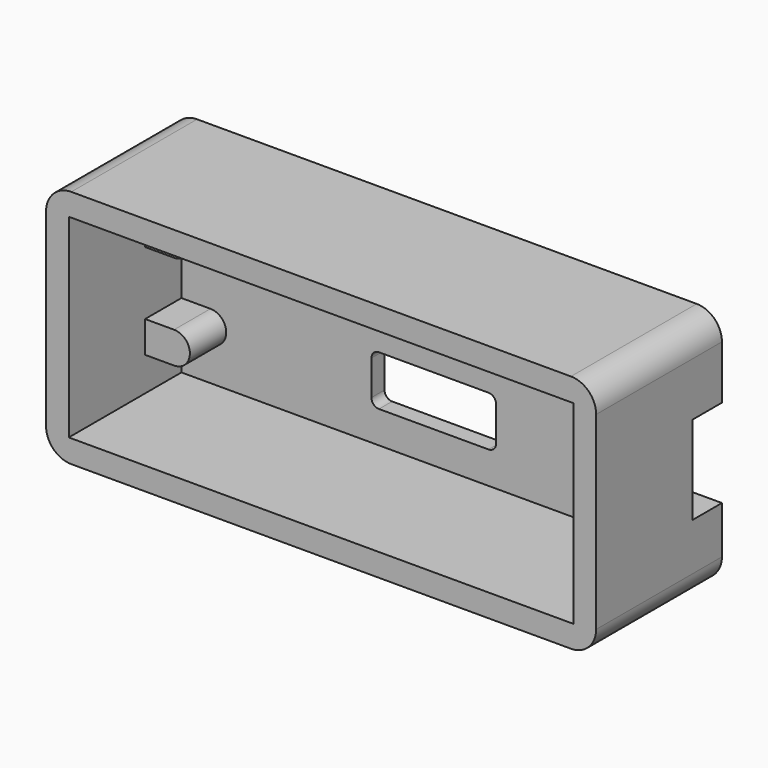
from build123d import *

# Parameters (mm, degrees)
F0_W      = 55.372
F0_H      = 24.13
F0_W_2    = 53.086
F0_H_2    = 21.844
F0_W_3    = 12.5476
F0_H_3    = 5.0292
F0_R      = 3.302
F1_DEPTH  = 18.8214
F2_DEPTH  = 17.1704
F3_START  = -12.5984
F3_DEPTH  = 4.572
F4_DEPTH  = 18.8224
F5_DEPTH  = 15.1384
F6_DEPTH  = 2.9972
F7_R      = 1.397
F8_R      = 2.54
F9_R      = 0.762
F10_R     = 3.302
F10_R_2   = 2.794
F11_DEPTH = 1.5748
F12_W     = 1.4269354192
F12_H     = 1.7015769881
F13_DEPTH = 0.508
F15_DEPTH = 3.683
F17_DEPTH = 2.9972


with BuildPart() as f1:
    # F0 (on Front) → F1 (new body)
    with BuildSketch(Plane.XZ):
        Rectangle(F0_W, F0_H)
        Rectangle(F0_W_2, F0_H_2, mode=Mode.SUBTRACT)
        Rectangle(F0_W_2, F0_H_2)
        Polygon((16.891, -9.779), (-25.4, -9.779), (-25.4, -6.3627), (-25.4, -3.1877), (-25.4, 3.1877), (-25.4, 6.3627), (-25.4, 9.779), (16.891, 9.779), (25.4, 9.779), (25.4, -1.905), (25.4, -9.779), align=None, mode=Mode.SUBTRACT)
        Rectangle(F0_W_2, F0_H_2)
        Polygon((16.891, -9.779), (-25.4, -9.779), (-25.4, -6.3627), (-25.4, -3.1877), (-25.4, 3.1877), (-25.4, 6.3627), (-25.4, 9.779), (16.891, 9.779), (25.4, 9.779), (25.4, -1.905), (25.4, -9.779), align=None, mode=Mode.SUBTRACT)
        with BuildLine():
            Line((-25.4, -6.3627), (-25.4, -9.779))
            Line((-25.4, -9.779), (16.891, -9.779))
            Line((16.891, -9.779), (16.891, 9.779))
            Line((16.891, 9.779), (-25.4, 9.779))
            Line((-25.4, 9.779), (-25.4, 6.3627))
            Line((-25.4, 6.3627), (-22.479, 6.3627))
            ThreePointArc((-22.479, 6.3627), (-20.8915, 4.7752), (-22.479, 3.1877))
            Line((-22.479, 3.1877), (-25.4, 3.1877))
            Line((-25.4, 3.1877), (-25.4, -3.1877))
            Line((-25.4, -3.1877), (-22.479, -3.1877))
            ThreePointArc((-22.479, -3.1877), (-20.8915, -4.7752), (-22.479, -6.3627))
            Line((-22.479, -6.3627), (-25.4, -6.3627))
        make_face()
        with Locations((0, -4.0386)):
            Rectangle(F0_W_3, F0_H_3, mode=Mode.SUBTRACT)
        Polygon((16.891, 9.779), (16.891, -9.779), (25.4, -9.779), (25.4, -1.905), (25.4, 9.779), align=None)
        with Locations((22.098, -1.905)):
            Circle(F0_R, mode=Mode.SUBTRACT)
        Polygon((16.891, 9.779), (16.891, -9.779), (25.4, -9.779), (25.4, -1.905), (25.4, 9.779), align=None)
        with Locations((22.098, -1.905)):
            Circle(F0_R, mode=Mode.SUBTRACT)
        with Locations((0, -4.0386)):
            Rectangle(F0_W_3, F0_H_3)
        with Locations((22.098, -1.905)):
            Circle(F0_R)
        with BuildLine():
            Line((-25.4, 6.3627), (-25.4, 3.1877))
            Line((-25.4, 3.1877), (-22.479, 3.1877))
            ThreePointArc((-22.479, 3.1877), (-20.8915, 4.7752), (-22.479, 6.3627))
            Line((-22.479, 6.3627), (-25.4, 6.3627))
        make_face()
        with BuildLine():
            Line((-25.4, -3.1877), (-25.4, -6.3627))
            Line((-25.4, -6.3627), (-22.479, -6.3627))
            ThreePointArc((-22.479, -6.3627), (-20.8915, -4.7752), (-22.479, -3.1877))
            Line((-22.479, -3.1877), (-25.4, -3.1877))
        make_face()
    extrude(amount=-F1_DEPTH)

    # F0 (on Front) → F2 (cut)
    with BuildSketch(Plane.XZ):
        with BuildLine():
            Line((-25.4, -6.3627), (-25.4, -9.779))
            Line((-25.4, -9.779), (16.891, -9.779))
            Line((16.891, -9.779), (16.891, 9.779))
            Line((16.891, 9.779), (-25.4, 9.779))
            Line((-25.4, 9.779), (-25.4, 6.3627))
            Line((-25.4, 6.3627), (-22.479, 6.3627))
            ThreePointArc((-22.479, 6.3627), (-20.8915, 4.7752), (-22.479, 3.1877))
            Line((-22.479, 3.1877), (-25.4, 3.1877))
            Line((-25.4, 3.1877), (-25.4, -3.1877))
            Line((-25.4, -3.1877), (-22.479, -3.1877))
            ThreePointArc((-22.479, -3.1877), (-20.8915, -4.7752), (-22.479, -6.3627))
            Line((-22.479, -6.3627), (-25.4, -6.3627))
        make_face()
        with Locations((0, -4.0386)):
            Rectangle(F0_W_3, F0_H_3, mode=Mode.SUBTRACT)
        with BuildLine():
            Line((-25.4, 6.3627), (-25.4, 3.1877))
            Line((-25.4, 3.1877), (-22.479, 3.1877))
            ThreePointArc((-22.479, 3.1877), (-20.8915, 4.7752), (-22.479, 6.3627))
            Line((-22.479, 6.3627), (-25.4, 6.3627))
        make_face()
        with BuildLine():
            Line((-25.4, -3.1877), (-25.4, -6.3627))
            Line((-25.4, -6.3627), (-22.479, -6.3627))
            ThreePointArc((-22.479, -6.3627), (-20.8915, -4.7752), (-22.479, -3.1877))
            Line((-22.479, -3.1877), (-25.4, -3.1877))
        make_face()
        with Locations((0, -4.0386)):
            Rectangle(F0_W_3, F0_H_3)
    extrude(amount=-F2_DEPTH, mode=Mode.SUBTRACT)

    # F0 (on Front) → F3 (join)
    with BuildSketch(Plane.XZ.offset(F3_START)):
        with BuildLine():
            Line((-25.4, 6.3627), (-25.4, 3.1877))
            Line((-25.4, 3.1877), (-22.479, 3.1877))
            ThreePointArc((-22.479, 3.1877), (-20.8915, 4.7752), (-22.479, 6.3627))
            Line((-22.479, 6.3627), (-25.4, 6.3627))
        make_face()
        with BuildLine():
            Line((-25.4, -3.1877), (-25.4, -6.3627))
            Line((-25.4, -6.3627), (-22.479, -6.3627))
            ThreePointArc((-22.479, -6.3627), (-20.8915, -4.7752), (-22.479, -3.1877))
            Line((-22.479, -3.1877), (-25.4, -3.1877))
        make_face()
    extrude(amount=-F3_DEPTH)

    # F0 (on Front) → F4 (cut, through all)
    with BuildSketch(Plane.XZ):
        with Locations((0, -4.0386)):
            Rectangle(F0_W_3, F0_H_3)
    extrude(amount=-F4_DEPTH, mode=Mode.SUBTRACT)

    # F0 (on Front) → F5 (cut)
    with BuildSketch(Plane.XZ):
        Polygon((16.891, 9.779), (16.891, -9.779), (25.4, -9.779), (25.4, -1.905), (25.4, 9.779), align=None)
        with Locations((22.098, -1.905)):
            Circle(F0_R, mode=Mode.SUBTRACT)
        Polygon((16.891, 9.779), (16.891, -9.779), (25.4, -9.779), (25.4, -1.905), (25.4, 9.779), align=None)
        with Locations((22.098, -1.905)):
            Circle(F0_R, mode=Mode.SUBTRACT)
        with Locations((22.098, -1.905)):
            Circle(F0_R)
    extrude(amount=-F5_DEPTH, mode=Mode.SUBTRACT)

    # F0 (on Front) → F6 (cut)
    with BuildSketch(Plane.XZ):
        Rectangle(F0_W_2, F0_H_2)
        Polygon((16.891, -9.779), (-25.4, -9.779), (-25.4, -6.3627), (-25.4, -3.1877), (-25.4, 3.1877), (-25.4, 6.3627), (-25.4, 9.779), (16.891, 9.779), (25.4, 9.779), (25.4, -1.905), (25.4, -9.779), align=None, mode=Mode.SUBTRACT)
        Rectangle(F0_W_2, F0_H_2)
        Polygon((16.891, -9.779), (-25.4, -9.779), (-25.4, -6.3627), (-25.4, -3.1877), (-25.4, 3.1877), (-25.4, 6.3627), (-25.4, 9.779), (16.891, 9.779), (25.4, 9.779), (25.4, -1.905), (25.4, -9.779), align=None, mode=Mode.SUBTRACT)
    extrude(amount=-F6_DEPTH, mode=Mode.SUBTRACT)

    # F7
    f7_edges = [f1.edges().sort_by_distance(p)[0] for p in [
        (-26.543, 1.4986, 10.922),
        (26.543, 1.4986, 10.922),
        (26.543, 1.4986, -10.922),
        (-26.543, 1.4986, -10.922),
    ]]
    fillet(f7_edges, radius=F7_R)

    # F8
    f8_edges = [f1.edges().sort_by_distance(p)[0] for p in [
        (27.686, 9.4107, 12.065),
        (27.686, 9.4107, -12.065),
        (-27.686, 9.4107, -12.065),
        (-27.686, 9.4107, 12.065),
    ]]
    fillet(f8_edges, radius=F8_R)

    # F9
    f9_edges = [f1.edges().sort_by_distance(p)[0] for p in [
        (-6.2738, 17.9959, -1.524),
        (-6.2738, 17.9959, -6.5532),
        (6.2738, 17.9959, -6.5532),
        (6.2738, 17.9959, -1.524),
    ]]
    fillet(f9_edges, radius=F9_R)

    # F10 (on face) → F11 (join)
    with BuildSketch(Plane.XZ.offset(-15.1384)):
        with Locations((22.098, -1.905)):
            Circle(F10_R)
        with Locations((22.098, -1.905)):
            Circle(F10_R_2, mode=Mode.SUBTRACT)
    extrude(amount=-F11_DEPTH)

    # F12 (on face) → F13 (cut)
    with BuildSketch(Plane(origin=(0, 18.8214, 0), x_dir=(-1, 0, 0), z_dir=(0, 1, 0))):
        with BuildLine():
            add(Edge.make_bspline(
                [(-11.2693289529, 0.5145416349), (-11.8504585787, 0.5145416349), (-12.3858084959, 0.6120558378), (-12.8753848183, 0.8070903574)],
                knots=[0, 0, 0, 0, 1, 1, 1, 1], degree=3))
            add(Edge.make_bspline(
                [(-10.4095838251, 0.5802154636), (-10.6285047391, 0.5364288353), (-10.9150864484, 0.5145416349), (-11.2693289529, 0.5145416349)],
                knots=[0, 0, 0, 0, 1, 1, 1, 1], degree=3))
            add(Edge.make_bspline(
                [(-9.6871594818, 0.7712699364), (-9.9458808636, 0.6876828403), (-10.1866889781, 0.6239959781), (-10.4095838251, 0.5802154636)],
                knots=[0, 0, 0, 0, 1, 1, 1, 1], degree=3))
            add(Edge.make_bspline(
                [(-9.060262375, 1.0160580976), (-9.2314166139, 0.9324710015), (-9.4403843541, 0.8508769857), (-9.6871594818, 0.7712699364)],
                knots=[0, 0, 0, 0, 1, 1, 1, 1], degree=3))
            add(Edge.make_bspline(
                [(-8.5050122238, 1.2787595262), (-8.7000467434, 1.1872123366), (-8.885134203, 1.0996451937), (-9.060262375, 1.0160580976)],
                knots=[0, 0, 0, 0, 1, 1, 1, 1], degree=3))
            Line((-8.5050122238, 1.2787595262), (-8.5050122238, 2.687781678))
            Line((-8.5050122238, 2.687781678), (-8.5945663332, 2.687781678))
            add(Edge.make_bspline(
                [(-8.9707082656, 2.3534394075), (-8.811494167, 2.4847870649), (-8.6861135228, 2.5962344884), (-8.5945663332, 2.687781678)],
                knots=[0, 0, 0, 0, 1, 1, 1, 1], degree=3))
            add(Edge.make_bspline(
                [(-9.537898557, 1.9772974751), (-9.3189837568, 2.1006911527), (-9.1299223642, 2.2260656831), (-8.9707082656, 2.3534394075)],
                knots=[0, 0, 0, 0, 1, 1, 1, 1], degree=3))
            add(Edge.make_bspline(
                [(-10.3140565887, 1.6608684719), (-10.0234948327, 1.7444494542), (-9.7647795646, 1.8499298644), (-9.537898557, 1.9772974751)],
                knots=[0, 0, 0, 0, 1, 1, 1, 1], degree=3))
            add(Edge.make_bspline(
                [(-11.2633619396, 1.5354878277), (-10.9210534617, 1.5354878277), (-10.6046244585, 1.5772813758), (-10.3140565887, 1.6608684719)],
                knots=[0, 0, 0, 0, 1, 1, 1, 1], degree=3))
            add(Edge.make_bspline(
                [(-12.3261016805, 1.7563957083), (-11.9917594099, 1.60912175), (-11.6375107917, 1.5354878277), (-11.2633619396, 1.5354878277)],
                knots=[0, 0, 0, 0, 1, 1, 1, 1], degree=3))
            add(Edge.make_bspline(
                [(-13.1977869486, 2.4250863632), (-12.9510118208, 2.1305384467), (-12.6604500648, 1.9076435996), (-12.3261016805, 1.7563957083)],
                knots=[0, 0, 0, 0, 1, 1, 1, 1], degree=3))
            add(Edge.make_bspline(
                [(-13.8008037748, 3.5355866654), (-13.6535298165, 3.0977570649), (-13.4525282836, 2.7275882596), (-13.1977869486, 2.4250863632)],
                knots=[0, 0, 0, 0, 1, 1, 1, 1], degree=3))
            add(Edge.make_bspline(
                [(-14.0217116553, 5.1117891232), (-14.0217116553, 4.5027991699), (-13.948077733, 3.9774024265), (-13.8008037748, 3.5355866654)],
                knots=[0, 0, 0, 0, 1, 1, 1, 1], degree=3))
            add(Edge.make_bspline(
                [(-13.8127439151, 6.6581320595), (-13.9520577798, 6.200402225), (-14.0217116553, 5.6849525417), (-14.0217116553, 5.1117891232)],
                knots=[0, 0, 0, 0, 1, 1, 1, 1], degree=3))
            add(Edge.make_bspline(
                [(-13.2276403563, 7.7984918832), (-13.4784016445, 7.4959899868), (-13.6734361641, 7.1158680077), (-13.8127439151, 6.6581320595)],
                knots=[0, 0, 0, 0, 1, 1, 1, 1], degree=3))
            add(Edge.make_bspline(
                [(-12.3380418208, 8.4850896917), (-12.6763702519, 8.3298617536), (-12.9728990212, 8.1009937795), (-13.2276403563, 7.7984918832)],
                knots=[0, 0, 0, 0, 1, 1, 1, 1], degree=3))
            add(Edge.make_bspline(
                [(-11.2633619396, 8.7179377126), (-11.6414908384, 8.7179377126), (-11.9997195034, 8.6403237435), (-12.3380418208, 8.4850896917)],
                knots=[0, 0, 0, 0, 1, 1, 1, 1], degree=3))
            add(Edge.make_bspline(
                [(-10.3379429831, 8.5985301955), (-10.6046244585, 8.6781372448), (-10.9130933681, 8.7179377126), (-11.2633619396, 8.7179377126)],
                knots=[0, 0, 0, 0, 1, 1, 1, 1], degree=3))
            add(Edge.make_bspline(
                [(-9.5976053724, 8.2940352189), (-9.8244802663, 8.4174288965), (-10.0712615077, 8.5189231462), (-10.3379429831, 8.5985301955)],
                knots=[0, 0, 0, 0, 1, 1, 1, 1], degree=3))
            add(Edge.make_bspline(
                [(-9.0005616733, 7.8940191196), (-9.1637497049, 8.0293468238), (-9.3627703851, 8.1626875615), (-9.5976053724, 8.2940352189)],
                knots=[0, 0, 0, 0, 1, 1, 1, 1], degree=3))
            add(Edge.make_bspline(
                [(-8.6005394602, 7.5477305949), (-8.7040267902, 7.6432578313), (-8.8373675279, 7.7586853016), (-9.0005616733, 7.8940191196)],
                knots=[0, 0, 0, 0, 1, 1, 1, 1], degree=3))
            Line((-8.6005394602, 7.5477305949), (-8.5050122238, 7.5477305949))
            Line((-8.5050122238, 7.5477305949), (-8.5050122238, 8.9746721279))
            add(Edge.make_bspline(
                [(-9.102055923, 9.2672208504), (-8.8990613098, 9.1796537076), (-8.7000467434, 9.0821395046), (-8.5050122238, 8.9746721279)],
                knots=[0, 0, 0, 0, 1, 1, 1, 1], degree=3))
            add(Edge.make_bspline(
                [(-9.6871594818, 9.494101858), (-9.496105009, 9.4343950426), (-9.3010704894, 9.3587680401), (-9.102055923, 9.2672208504)],
                knots=[0, 0, 0, 0, 1, 1, 1, 1], degree=3))
            add(Edge.make_bspline(
                [(-10.4155569522, 9.6612699364), (-10.1528555236, 9.6174894219), (-9.9100604426, 9.5617626532), (-9.6871594818, 9.494101858)],
                knots=[0, 0, 0, 0, 1, 1, 1, 1], degree=3))
            add(Edge.make_bspline(
                [(-11.2514217992, 9.7269437651), (-10.9528999496, 9.7269437651), (-10.674278334, 9.7050565647), (-10.4155569522, 9.6612699364)],
                knots=[0, 0, 0, 0, 1, 1, 1, 1], degree=3))
            add(Edge.make_bspline(
                [(-12.8813518316, 9.4105147619), (-12.395755556, 9.6214694686), (-11.8524455452, 9.7269437651), (-11.2514217992, 9.7269437651)],
                knots=[0, 0, 0, 0, 1, 1, 1, 1], degree=3))
            add(Edge.make_bspline(
                [(-14.1411191724, 8.5030029591), (-13.7868705542, 8.9010320919), (-13.3669481072, 9.203540102), (-12.8813518316, 9.4105147619)],
                knots=[0, 0, 0, 0, 1, 1, 1, 1], degree=3))
            add(Edge.make_bspline(
                [(-14.9710108924, 7.0581542725), (-14.7799564196, 7.6114174571), (-14.5033278842, 8.093033686), (-14.1411191724, 8.5030029591)],
                knots=[0, 0, 0, 0, 1, 1, 1, 1], degree=3))
            add(Edge.make_bspline(
                [(-15.2516255884, 5.1117891232), (-15.2516255884, 5.8561067806), (-15.1580853185, 6.5048910879), (-14.9710108924, 7.0581542725)],
                knots=[0, 0, 0, 0, 1, 1, 1, 1], degree=3))
            add(Edge.make_bspline(
                [(-14.9590707521, 3.1236243121), (-15.1541052717, 3.7007677774), (-15.2516255884, 4.363491419), (-15.2516255884, 5.1117891232)],
                knots=[0, 0, 0, 0, 1, 1, 1, 1], degree=3))
            add(Edge.make_bspline(
                [(-14.1351460453, 1.6787756255), (-14.4893946636, 2.0648646179), (-14.7640362325, 2.5464808468), (-14.9590707521, 3.1236243121)],
                knots=[0, 0, 0, 0, 1, 1, 1, 1], degree=3))
            add(Edge.make_bspline(
                [(-12.8753848183, 0.8070903574), (-13.3609810939, 1.002124877), (-13.7809035409, 1.2926866331), (-14.1351460453, 1.6787756255)],
                knots=[0, 0, 0, 0, 1, 1, 1, 1], degree=3))
        make_face()
        Polygon((-7.3885387945, 0.6757427), (-2.2360350414, 0.6757427), (-2.2360350414, 1.7265423006), (-6.2063854228, 1.7265423006), (-6.2063854228, 9.5657427), (-7.3885387945, 9.5657427), align=None)
        with Locations((-0.0359250971, 6.4939474877)):
            Rectangle(F12_W, F12_H)
        with BuildLine():
            add(Edge.make_bspline(
                [(9.3108143109, 8.5447965071), (9.649142742, 8.1547274679), (9.9118441706, 7.6711242725), (10.0989185967, 7.0939746935)],
                knots=[0, 0, 0, 0, 1, 1, 1, 1], degree=3))
            add(Edge.make_bspline(
                [(8.0809064916, 9.4343950426), (8.5665027672, 9.2234403359), (8.9764720403, 8.9269054528), (9.3108143109, 8.5447965071)],
                knots=[0, 0, 0, 0, 1, 1, 1, 1], degree=3))
            add(Edge.make_bspline(
                [(6.4449972184, 9.7508301595), (7.0500071249, 9.7508301595), (7.5953102159, 9.6453497493), (8.0809064916, 9.4343950426)],
                knots=[0, 0, 0, 0, 1, 1, 1, 1], degree=3))
            add(Edge.make_bspline(
                [(4.8210341994, 9.4403620559), (5.3066365887, 9.6473428296), (5.8479535193, 9.7508301595), (6.4449972184, 9.7508301595)],
                knots=[0, 0, 0, 0, 1, 1, 1, 1], degree=3))
            add(Edge.make_bspline(
                [(3.585153253, 8.5447965071), (3.9274617309, 8.9388455931), (4.3394179705, 9.2373674427), (4.8210341994, 9.4403620559)],
                knots=[0, 0, 0, 0, 1, 1, 1, 1], degree=3))
            add(Edge.make_bspline(
                [(2.7910819539, 7.0880076802), (2.97815638, 7.6532110052), (3.2428447751, 8.1388072808), (3.585153253, 8.5447965071)],
                knots=[0, 0, 0, 0, 1, 1, 1, 1], degree=3))
            add(Edge.make_bspline(
                [(2.516440385, 5.1177561365), (2.516440385, 5.8660538407), (2.6079875747, 6.5228043553), (2.7910819539, 7.0880076802)],
                knots=[0, 0, 0, 0, 1, 1, 1, 1], degree=3))
            add(Edge.make_bspline(
                [(2.7910819539, 3.1594508468), (2.6079875747, 3.7365943121), (2.516440385, 4.3893647799), (2.516440385, 5.1177561365)],
                knots=[0, 0, 0, 0, 1, 1, 1, 1], degree=3))
            add(Edge.make_bspline(
                [(3.5791801259, 1.7026559062), (3.2368777618, 2.0967111059), (2.9741763332, 2.5823073815), (2.7910819539, 3.1594508468)],
                knots=[0, 0, 0, 0, 1, 1, 1, 1], degree=3))
            add(Edge.make_bspline(
                [(4.8210341994, 0.7951502171), (4.3394179705, 0.9981448303), (3.9254686506, 1.3006467266), (3.5791801259, 1.7026559062)],
                knots=[0, 0, 0, 0, 1, 1, 1, 1], degree=3))
            add(Edge.make_bspline(
                [(6.4449972184, 0.4906552405), (5.8439734725, 0.4906552405), (5.302656542, 0.5921556039), (4.8210341994, 0.7951502171)],
                knots=[0, 0, 0, 0, 1, 1, 1, 1], degree=3))
            add(Edge.make_bspline(
                [(8.0391129435, 0.7832100768), (7.5574967147, 0.5881755571), (7.0261268442, 0.4906552405), (6.4449972184, 0.4906552405)],
                knots=[0, 0, 0, 0, 1, 1, 1, 1], degree=3))
            add(Edge.make_bspline(
                [(9.3108143109, 1.7026559062), (8.9486117129, 1.2887065863), (8.5247092192, 0.9822246431), (8.0391129435, 0.7832100768)],
                knots=[0, 0, 0, 0, 1, 1, 1, 1], degree=3))
            add(Edge.make_bspline(
                [(10.10488561, 3.1654178601), (9.9217912307, 2.5842943481), (9.6571028356, 2.0967111059), (9.3108143109, 1.7026559062)],
                knots=[0, 0, 0, 0, 1, 1, 1, 1], degree=3))
            add(Edge.make_bspline(
                [(10.3795271789, 5.1177561365), (10.3795271789, 4.3973248735), (10.2879799892, 3.7465413722), (10.10488561, 3.1654178601)],
                knots=[0, 0, 0, 0, 1, 1, 1, 1], degree=3))
            add(Edge.make_bspline(
                [(10.0989185967, 7.0939746935), (10.2859930227, 6.5168312282), (10.3795271789, 5.8580937471), (10.3795271789, 5.1177561365)],
                knots=[0, 0, 0, 0, 1, 1, 1, 1], degree=3))
        make_face()
        with BuildLine():
            add(Edge.make_bspline(
                [(9.1496132458, 5.1177561365), (9.1496132458, 5.7068397421), (9.0859324973, 6.2282625525), (8.958558773, 6.6820184539)],
                knots=[0, 0, 0, 0, 1, 1, 1, 1], degree=3))
            add(Edge.make_bspline(
                [(8.4152487622, 2.4370265035), (8.9048250846, 3.0579504834), (9.1496132458, 3.9515290656), (9.1496132458, 5.1177561365)],
                knots=[0, 0, 0, 0, 1, 1, 1, 1], degree=3))
            add(Edge.make_bspline(
                [(6.4509703455, 1.5116014333), (7.2748950522, 1.5116014333), (7.9296524865, 1.8200764567), (8.4152487622, 2.4370265035)],
                knots=[0, 0, 0, 0, 1, 1, 1, 1], degree=3))
            add(Edge.make_bspline(
                [(4.4807188017, 2.4370265035), (4.9702951241, 1.8200764567), (5.6270456387, 1.5116014333), (6.4509703455, 1.5116014333)],
                knots=[0, 0, 0, 0, 1, 1, 1, 1], degree=3))
            add(Edge.make_bspline(
                [(3.7463543181, 5.1177561365), (3.7463543181, 3.9515290656), (3.9911424793, 3.0579504834), (4.4807188017, 2.4370265035)],
                knots=[0, 0, 0, 0, 1, 1, 1, 1], degree=3))
            add(Edge.make_bspline(
                [(3.9314417776, 6.6700721998), (3.8080481, 6.2123423654), (3.7463543181, 5.6948996018), (3.7463543181, 5.1177561365)],
                knots=[0, 0, 0, 0, 1, 1, 1, 1], degree=3))
            add(Edge.make_bspline(
                [(4.4747517884, 7.8104320235), (4.2399106873, 7.5079301271), (4.0588093883, 7.127808148), (3.9314417776, 6.6700721998)],
                knots=[0, 0, 0, 0, 1, 1, 1, 1], degree=3))
            add(Edge.make_bspline(
                [(5.3225567758, 8.5030029591), (5.0041285786, 8.3557351146), (4.7215269162, 8.1248740602), (4.4747517884, 7.8104320235)],
                knots=[0, 0, 0, 0, 1, 1, 1, 1], degree=3))
            add(Edge.make_bspline(
                [(6.4509703455, 8.7298839667), (6.0210947247, 8.7298839667), (5.6449589061, 8.6542569641), (5.3225567758, 8.5030029591)],
                knots=[0, 0, 0, 0, 1, 1, 1, 1], degree=3))
            add(Edge.make_bspline(
                [(7.5674437748, 8.4970359458), (7.237081551, 8.6522638839), (6.8649196654, 8.7298839667), (6.4509703455, 8.7298839667)],
                knots=[0, 0, 0, 0, 1, 1, 1, 1], degree=3))
            add(Edge.make_bspline(
                [(8.4212218892, 7.8104320235), (8.1863807881, 8.1169139666), (7.9017921591, 8.3457819407), (7.5674437748, 8.4970359458)],
                knots=[0, 0, 0, 0, 1, 1, 1, 1], degree=3))
            add(Edge.make_bspline(
                [(8.958558773, 6.6820184539), (8.8311911623, 7.1357682416), (8.6520768298, 7.5119101739), (8.4212218892, 7.8104320235)],
                knots=[0, 0, 0, 0, 1, 1, 1, 1], degree=3))
        make_face(mode=Mode.SUBTRACT)
        with Locations((-0.0359250971, 1.5265311941)):
            Rectangle(F12_W, F12_H)
        with BuildLine():
            add(Edge.make_bspline(
                [(15.1439488593, 0.5145416349), (14.5628253473, 0.5145416349), (14.0274754301, 0.6120558378), (13.5378991076, 0.8070903574)],
                knots=[0, 0, 0, 0, 1, 1, 1, 1], degree=3))
            add(Edge.make_bspline(
                [(16.0036939871, 0.5802154636), (15.7847791868, 0.5364288353), (15.4981974776, 0.5145416349), (15.1439488593, 0.5145416349)],
                knots=[0, 0, 0, 0, 1, 1, 1, 1], degree=3))
            add(Edge.make_bspline(
                [(16.7261183304, 0.7712699364), (16.4673969486, 0.6876828403), (16.2265888341, 0.6239959781), (16.0036939871, 0.5802154636)],
                knots=[0, 0, 0, 0, 1, 1, 1, 1], degree=3))
            add(Edge.make_bspline(
                [(17.3530154372, 1.0160580976), (17.1818611983, 0.9324710015), (16.9728995718, 0.8508769857), (16.7261183304, 0.7712699364)],
                knots=[0, 0, 0, 0, 1, 1, 1, 1], degree=3))
            add(Edge.make_bspline(
                [(17.9082655884, 1.2787595262), (17.7132310688, 1.1872123366), (17.528149723, 1.0996451937), (17.3530154372, 1.0160580976)],
                knots=[0, 0, 0, 0, 1, 1, 1, 1], degree=3))
            Line((17.9082655884, 1.2787595262), (17.9082655884, 2.687781678))
            Line((17.9082655884, 2.687781678), (17.818711479, 2.687781678))
            add(Edge.make_bspline(
                [(17.4425756604, 2.3534394075), (17.6017836452, 2.4847870649), (17.7271642894, 2.5962344884), (17.818711479, 2.687781678)],
                knots=[0, 0, 0, 0, 1, 1, 1, 1], degree=3))
            add(Edge.make_bspline(
                [(16.8753792552, 1.9772974751), (17.0942940554, 2.1006911527), (17.2833615618, 2.2260656831), (17.4425756604, 2.3534394075)],
                knots=[0, 0, 0, 0, 1, 1, 1, 1], degree=3))
            add(Edge.make_bspline(
                [(16.0992212235, 1.6608684719), (16.3897829795, 1.7444494542), (16.6485043613, 1.8499298644), (16.8753792552, 1.9772974751)],
                knots=[0, 0, 0, 0, 1, 1, 1, 1], degree=3))
            add(Edge.make_bspline(
                [(15.1499219864, 1.5354878277), (15.4922243505, 1.5354878277), (15.8086594675, 1.5772813758), (16.0992212235, 1.6608684719)],
                knots=[0, 0, 0, 0, 1, 1, 1, 1], degree=3))
            add(Edge.make_bspline(
                [(14.0871761317, 1.7563957083), (14.4215245161, 1.60912175), (14.7757731343, 1.5354878277), (15.1499219864, 1.5354878277)],
                knots=[0, 0, 0, 0, 1, 1, 1, 1], degree=3))
            add(Edge.make_bspline(
                [(13.2154908636, 2.4250863632), (13.4622721051, 2.1305384467), (13.7528338611, 1.9076435996), (14.0871761317, 1.7563957083)],
                knots=[0, 0, 0, 0, 1, 1, 1, 1], degree=3))
            add(Edge.make_bspline(
                [(12.6124801512, 3.5355866654), (12.7597479957, 3.0977570649), (12.9607556424, 2.7275882596), (13.2154908636, 2.4250863632)],
                knots=[0, 0, 0, 0, 1, 1, 1, 1], degree=3))
            add(Edge.make_bspline(
                [(12.3915722706, 5.1117891232), (12.3915722706, 4.5027991699), (12.4652061929, 3.9774024265), (12.6124801512, 3.5355866654)],
                knots=[0, 0, 0, 0, 1, 1, 1, 1], degree=3))
            add(Edge.make_bspline(
                [(12.6005338971, 6.6581320595), (12.4612261461, 6.200402225), (12.3915722706, 5.6849525417), (12.3915722706, 5.1117891232)],
                knots=[0, 0, 0, 0, 1, 1, 1, 1], degree=3))
            add(Edge.make_bspline(
                [(13.1856435697, 7.7984918832), (12.9348822814, 7.4959899868), (12.7398477618, 7.1158680077), (12.6005338971, 6.6581320595)],
                knots=[0, 0, 0, 0, 1, 1, 1, 1], degree=3))
            add(Edge.make_bspline(
                [(14.0752359914, 8.4850896917), (13.736913674, 8.3298617536), (13.440378791, 8.1009937795), (13.1856435697, 7.7984918832)],
                knots=[0, 0, 0, 0, 1, 1, 1, 1], degree=3))
            add(Edge.make_bspline(
                [(15.1499219864, 8.7179377126), (14.7717930875, 8.7179377126), (14.4135644225, 8.6403237435), (14.0752359914, 8.4850896917)],
                knots=[0, 0, 0, 0, 1, 1, 1, 1], degree=3))
            add(Edge.make_bspline(
                [(16.0753409428, 8.5985301955), (15.8086594675, 8.6781372448), (15.5001844441, 8.7179377126), (15.1499219864, 8.7179377126)],
                knots=[0, 0, 0, 0, 1, 1, 1, 1], degree=3))
            add(Edge.make_bspline(
                [(16.8156785535, 8.2940352189), (16.5887975459, 8.4174288965), (16.3420224182, 8.5189231462), (16.0753409428, 8.5985301955)],
                knots=[0, 0, 0, 0, 1, 1, 1, 1], degree=3))
            add(Edge.make_bspline(
                [(17.4127222527, 7.8940191196), (17.2495281073, 8.0293468238), (17.0505135409, 8.1626875615), (16.8156785535, 8.2940352189)],
                knots=[0, 0, 0, 0, 1, 1, 1, 1], degree=3))
            add(Edge.make_bspline(
                [(17.812738352, 7.5477305949), (17.709251022, 7.6432578313), (17.5759102843, 7.7586853016), (17.4127222527, 7.8940191196)],
                knots=[0, 0, 0, 0, 1, 1, 1, 1], degree=3))
            Line((17.812738352, 7.5477305949), (17.9082655884, 7.5477305949))
            Line((17.9082655884, 7.5477305949), (17.9082655884, 8.9746721279))
            add(Edge.make_bspline(
                [(17.3112218892, 9.2672208504), (17.5142165024, 9.1796537076), (17.7132310688, 9.0821395046), (17.9082655884, 8.9746721279)],
                knots=[0, 0, 0, 0, 1, 1, 1, 1], degree=3))
            add(Edge.make_bspline(
                [(16.7261183304, 9.494101858), (16.9171728032, 9.4343950426), (17.1122073228, 9.3587680401), (17.3112218892, 9.2672208504)],
                knots=[0, 0, 0, 0, 1, 1, 1, 1], degree=3))
            add(Edge.make_bspline(
                [(15.9977208601, 9.6612699364), (16.2604222886, 9.6174894219), (16.5032234833, 9.5617626532), (16.7261183304, 9.494101858)],
                knots=[0, 0, 0, 0, 1, 1, 1, 1], degree=3))
            add(Edge.make_bspline(
                [(15.1618621267, 9.7269437651), (15.4603839763, 9.7269437651), (15.739005592, 9.7050565647), (15.9977208601, 9.6612699364)],
                knots=[0, 0, 0, 0, 1, 1, 1, 1], degree=3))
            add(Edge.make_bspline(
                [(13.5319259806, 9.4105147619), (14.0175222562, 9.6214694686), (14.560832267, 9.7269437651), (15.1618621267, 9.7269437651)],
                knots=[0, 0, 0, 0, 1, 1, 1, 1], degree=3))
            add(Edge.make_bspline(
                [(12.2721586398, 8.5030029591), (12.626407258, 8.9010320919), (13.046329705, 9.203540102), (13.5319259806, 9.4105147619)],
                knots=[0, 0, 0, 0, 1, 1, 1, 1], degree=3))
            add(Edge.make_bspline(
                [(11.4422669198, 7.0581542725), (11.6333213926, 7.6114174571), (11.9099560418, 8.093033686), (12.2721586398, 8.5030029591)],
                knots=[0, 0, 0, 0, 1, 1, 1, 1], degree=3))
            add(Edge.make_bspline(
                [(11.1616583376, 5.1117891232), (11.1616583376, 5.8561067806), (11.2551924937, 6.5048910879), (11.4422669198, 7.0581542725)],
                knots=[0, 0, 0, 0, 1, 1, 1, 1], degree=3))
            add(Edge.make_bspline(
                [(11.4542070601, 3.1236243121), (11.2591725405, 3.7007677774), (11.1616583376, 4.363491419), (11.1616583376, 5.1117891232)],
                knots=[0, 0, 0, 0, 1, 1, 1, 1], degree=3))
            add(Edge.make_bspline(
                [(12.2781317669, 1.6787756255), (11.9238831486, 2.0648646179), (11.6492415797, 2.5464808468), (11.4542070601, 3.1236243121)],
                knots=[0, 0, 0, 0, 1, 1, 1, 1], degree=3))
            add(Edge.make_bspline(
                [(13.5378991076, 0.8070903574), (13.052302832, 1.002124877), (12.6323803851, 1.2926866331), (12.2781317669, 1.6787756255)],
                knots=[0, 0, 0, 0, 1, 1, 1, 1], degree=3))
        make_face()
    extrude(amount=-F13_DEPTH, mode=Mode.SUBTRACT)

    # F14 (on face) → F15 (cut, through all)
    with BuildSketch(Plane(origin=(0, 18.8214, 0), x_dir=(-1, 0, 0), z_dir=(0, 1, 0))):
        with BuildLine():
            Line((-21.971, 4.1321202324), (-27.686, 4.1321202324))
            Line((-27.686, 4.1321202324), (-27.686, -4.7578797676))
            Line((-27.686, -4.7578797676), (-21.971, -4.7578797676))
            ThreePointArc((-21.971, -4.7578797676), (-19.7259359697, -3.8279437978), (-18.796, -1.5828797676))
            Line((-18.796, -1.5828797676), (-18.796, 0.9571202324))
            ThreePointArc((-18.796, 0.9571202324), (-19.7259359697, 3.2021842627), (-21.971, 4.1321202324))
        make_face()
    extrude(amount=-F15_DEPTH, mode=Mode.SUBTRACT)

    # F16 (on face) → F17 (cut, through all)
    with BuildSketch(Plane.XZ):
        with BuildLine():
            ThreePointArc((27.686, 9.525), (26.9420512242, 11.3210512242), (25.146, 12.065))
            Line((25.146, 12.065), (-25.146, 12.065))
            ThreePointArc((-25.146, 12.065), (-26.9420512242, 11.3210512242), (-27.686, 9.525))
            Line((-27.686, 9.525), (-27.686, -9.525))
            ThreePointArc((-27.686, -9.525), (-26.9420512242, -11.3210512242), (-25.146, -12.065))
            Line((-25.146, -12.065), (25.146, -12.065))
            ThreePointArc((25.146, -12.065), (26.9420512242, -11.3210512242), (27.686, -9.525))
            Line((27.686, -9.525), (27.686, 9.525))
        make_face()
    extrude(amount=-F17_DEPTH, mode=Mode.SUBTRACT)


solid = f1.part
